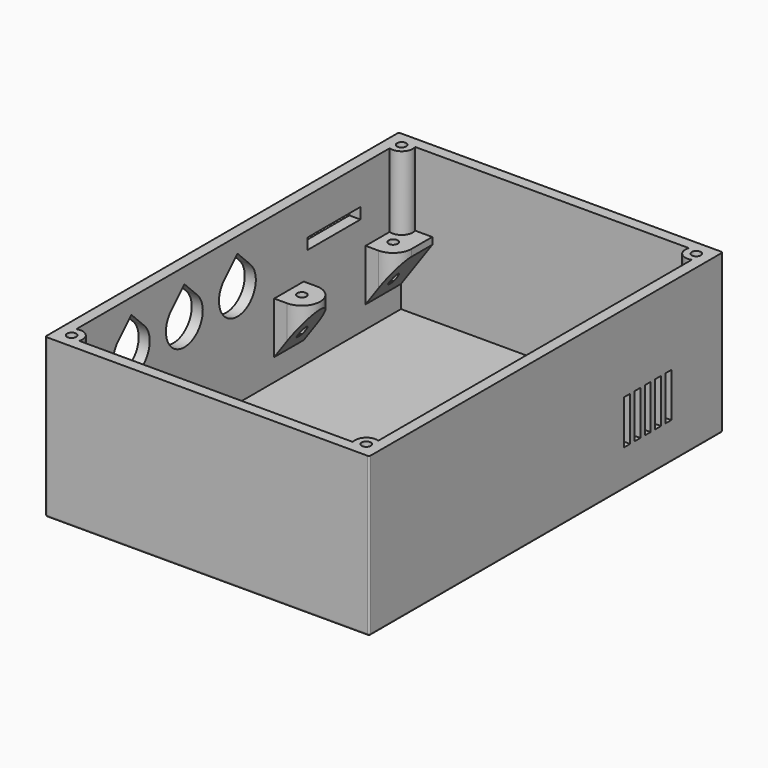
from build123d import *

# Parameters (mm, degrees)
F0_W      = 88
F0_H      = 120
F1_DEPTH  = 3
F2_W      = 88
F2_H      = 120
F3_DEPTH  = 40
F5_DEPTH  = 3
F7_DEPTH  = 3
F8_R      = 0.5
F10_DEPTH = 20
F13_D     = 2.5
F13_DEPTH = 10
F13_TIP   = 0.7510757738
F15_DEPTH = 43
F17_DEPTH = 43
F18_W     = 10
F18_H     = 0.75
F19_DEPTH = 3
F21_D     = 2.5
F21_DEPTH = 25
F21_TIP   = 0.7510757738
F22_W     = 18
F22_H     = 3
F23_DEPTH = 3
F24_W     = 2
F24_H     = 12
F25_DEPTH = 3


with BuildPart() as f1:
    # F0 (on Top) → F1 (new body)
    with BuildSketch(Plane.XY):
        with Locations((44, 60)):
            Rectangle(F0_W, F0_H)
    extrude(amount=F1_DEPTH)

    # F2 (on face) → F3 (join)
    with BuildSketch(Plane.XY.offset(3)):
        with Locations((44, 60)):
            Rectangle(F2_W, F2_H)
        with BuildLine():
            ThreePointArc((3, 113.1715728753), (6.1213203436, 113.8786796564), (6.8284271247, 117))
            Line((6.8284271247, 117), (81.1715728753, 117))
            ThreePointArc((81.1715728753, 117), (81.8786796564, 113.8786796564), (85, 113.1715728753))
            Line((85, 113.1715728753), (85, 6.8284271247))
            ThreePointArc((85, 6.8284271247), (81.8786796564, 6.1213203436), (81.1715728753, 3))
            Line((81.1715728753, 3), (6.8284271247, 3))
            ThreePointArc((6.8284271247, 3), (6.1213203436, 6.1213203436), (3, 6.8284271247))
            Line((3, 6.8284271247), (3, 113.1715728753))
        make_face(mode=Mode.SUBTRACT)
    extrude(amount=F3_DEPTH)

    # F4 (on face) → F5 (cut, through all)
    with BuildSketch(Plane(origin=(0, 0, 0), x_dir=(0, -1, 0), z_dir=(-1, 0, 0))):
        with BuildLine():
            Line((-61.5, 38.8388347648), (-65.9194173824, 34.4194173824))
            ThreePointArc((-65.9194173824, 34.4194173824), (-61.5, 23.75), (-57.0805826176, 34.4194173824))
            Line((-57.0805826176, 34.4194173824), (-61.5, 38.8388347648))
        make_face()
        with BuildLine():
            Line((-39.0805826176, 34.4194173824), (-43.5, 38.8388347648))
            Line((-43.5, 38.8388347648), (-47.9194173824, 34.4194173824))
            ThreePointArc((-47.9194173824, 34.4194173824), (-43.5, 23.75), (-39.0805826176, 34.4194173824))
        make_face()
        with BuildLine():
            Line((-21.0805826176, 34.4194173824), (-25.5, 38.8388347648))
            Line((-25.5, 38.8388347648), (-29.9194173824, 34.4194173824))
            ThreePointArc((-29.9194173824, 34.4194173824), (-25.5, 23.75), (-21.0805826176, 34.4194173824))
        make_face()
    extrude(amount=-F5_DEPTH, mode=Mode.SUBTRACT)

    # F6 (on face) → F7 (cut, through all)
    with BuildSketch(Plane(origin=(0, 120, 0), x_dir=(-1, 0, 0), z_dir=(0, 1, 0))):
        with BuildLine():
            Line((-54.9344657888, 16.95), (-61.0655342112, 16.95))
            ThreePointArc((-61.0655342112, 16.95), (-58, 8), (-54.9344657888, 16.95))
        make_face()
    extrude(amount=-F7_DEPTH, mode=Mode.SUBTRACT)

    # F8
    f8_edges = [f1.edges().sort_by_distance(p)[0] for p in [
        (0, 60, 0),
        (44, 0, 0),
        (0, 0, 21.5),
        (0, 120, 21.5),
        (88, 0, 21.5),
        (88, 60, 0),
        (44, 120, 0),
        (88, 120, 21.5),
    ]]
    fillet(f8_edges, radius=F8_R)

    # F9 (on face) → F10 (join)
    with BuildSketch(Plane.XY.offset(3)):
        with BuildLine():
            Line((6.5, 84), (3, 84))
            Line((3, 84), (3, 74))
            Line((3, 74), (6.5, 74))
            ThreePointArc((6.5, 74), (11.5, 79), (6.5, 84))
        make_face()
        with BuildLine():
            Line((3, 105), (6.5, 105))
            ThreePointArc((6.5, 105), (10.0355339059, 106.4644660941), (11.5, 110))
            Line((11.5, 110), (11.5, 117))
            Line((11.5, 117), (6.8284271247, 117))
            ThreePointArc((6.8284271247, 117), (6.1213203436, 113.8786796564), (3, 113.1715728753))
            Line((3, 113.1715728753), (3, 105))
        make_face()
        with BuildLine():
            Line((81.1715728753, 117), (76.5, 117))
            Line((76.5, 117), (76.5, 110))
            ThreePointArc((76.5, 110), (77.9644660941, 106.4644660941), (81.5, 105))
            Line((81.5, 105), (85, 105))
            Line((85, 105), (85, 113.1715728753))
            ThreePointArc((85, 113.1715728753), (81.8786796564, 113.8786796564), (81.1715728753, 117))
        make_face()
        with BuildLine():
            Line((85, 74), (85, 84))
            Line((85, 84), (81.5, 84))
            ThreePointArc((81.5, 84), (76.5, 79), (81.5, 74))
            Line((81.5, 74), (85, 74))
        make_face()
    extrude(amount=F10_DEPTH)

    # F13
    with Locations(Plane.XY.offset(23)):
        with Locations((6.5, 110), (6.5, 79), (81.5, 79), (81.5, 110)):
            Hole(F13_D / 2, depth=F13_DEPTH)
            with Locations((0, 0, -(F13_DEPTH + F13_TIP / 2))):  # 118° drill point
                Cone(0, F13_D / 2, F13_TIP, mode=Mode.SUBTRACT)

    # F14 (on face) → F15 (cut, through all)
    with BuildSketch(Plane.XZ.offset(-74)):
        Polygon((76.5, 3), (85, 3), (85, 9), (76.5, 21.1392580573), align=None)
    extrude(amount=-F15_DEPTH, mode=Mode.SUBTRACT)

    # F16 (on face) → F17 (cut, through all)
    with BuildSketch(Plane.XZ.offset(-74)):
        Polygon((3, 9), (3, 3), (11.5, 3), (11.5, 21.1392580573), align=None)
    extrude(amount=-F17_DEPTH, mode=Mode.SUBTRACT)

    # F18 (on face) → F19 (cut, through all)
    with BuildSketch(Plane.XY.offset(3)):
        with Locations((80, 7.875)):
            Rectangle(F18_W, F18_H)
        with Locations((80, 15.875)):
            Rectangle(F18_W, F18_H)
        with Locations((80, 108.625)):
            Rectangle(F18_W, F18_H)
        with Locations((80, 116.625)):
            Rectangle(F18_W, F18_H)
    extrude(amount=-F19_DEPTH, mode=Mode.SUBTRACT)

    # F21
    with Locations(Plane.XY.offset(43)):
        with Locations((4, 116), (4, 4), (84, 4), (84, 116)):
            Hole(F21_D / 2, depth=F21_DEPTH)
            with Locations((0, 0, -(F21_DEPTH + F21_TIP / 2))):  # 118° drill point
                Cone(0, F21_D / 2, F21_TIP, mode=Mode.SUBTRACT)

    # F22 (on face) → F23 (cut, through all)
    with BuildSketch(Plane(origin=(0, 0, 0), x_dir=(0, -1, 0), z_dir=(-1, 0, 0))):
        with Locations((-94.25, 31.5)):
            Rectangle(F22_W, F22_H)
    extrude(amount=-F23_DEPTH, mode=Mode.SUBTRACT)

    # F24 (on face) → F25 (cut, through all)
    with BuildSketch(Plane.YZ.offset(88)):
        with Locations((87.5, 16)):
            Rectangle(F24_W, F24_H)
        with Locations((91, 16)):
            Rectangle(F24_W, F24_H)
        with Locations((94.5, 16)):
            Rectangle(F24_W, F24_H)
        with Locations((98, 16)):
            Rectangle(F24_W, F24_H)
        with Locations((101.5, 16)):
            Rectangle(F24_W, F24_H)
    extrude(amount=-F25_DEPTH, mode=Mode.SUBTRACT)


solid = f1.part
